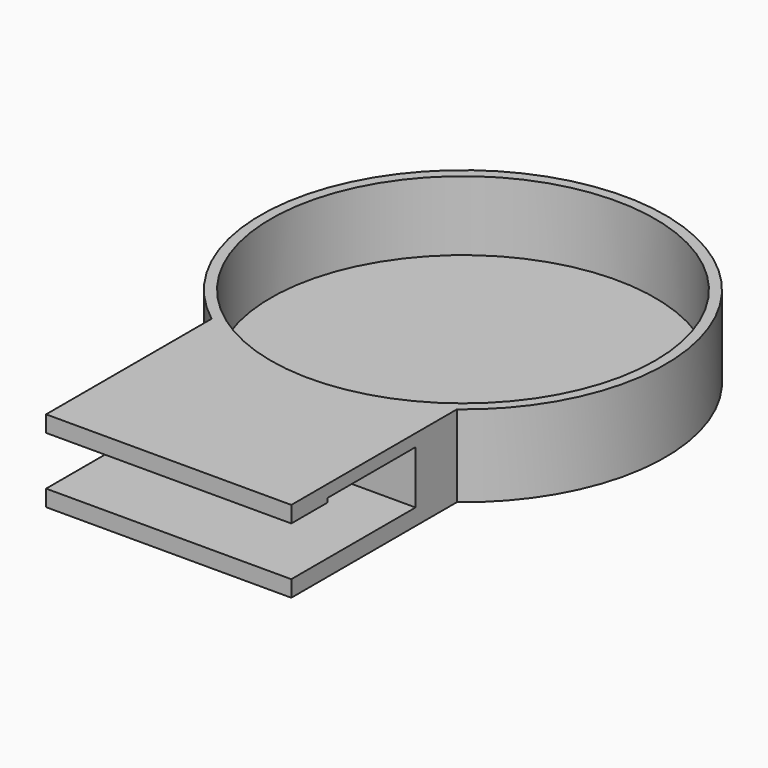
from build123d import *

# Parameters (mm, degrees)
F0_W     = 60
F0_H     = 90
F1_DEPTH = 20
F2_R     = 49.5
F3_DEPTH = 20
F4_R     = 47
F5_DEPTH = 17
F8_DEPTH = 79.501


with BuildPart() as f1:
    # F0 (on Top) → F1 (new body)
    with BuildSketch(Plane.XY):
        with Locations((30, 45)):
            Rectangle(F0_W, F0_H)
    extrude(amount=F1_DEPTH)

    # F2 (on Top) → F3 (join)
    with BuildSketch(Plane.XY):
        with Locations((30, 90)):
            Circle(F2_R)
    extrude(amount=F3_DEPTH)

    # F4 (on face) → F5 (cut)
    with BuildSketch(Plane.XY.offset(20)):
        with Locations((30, 90)):
            Circle(F4_R)
    extrude(amount=-F5_DEPTH, mode=Mode.SUBTRACT)

    # F7 (on face) → F8 (cut, through all)
    with BuildSketch(Plane.YZ.offset(60)):
        Polygon((11.123074, 16), (0, 16), (0, 4), (17.377608, 4), (38, 4), (38, 16), (38, 17), (11.123074, 17), align=None)
    extrude(amount=-F8_DEPTH, mode=Mode.SUBTRACT)


solid = f1.part
